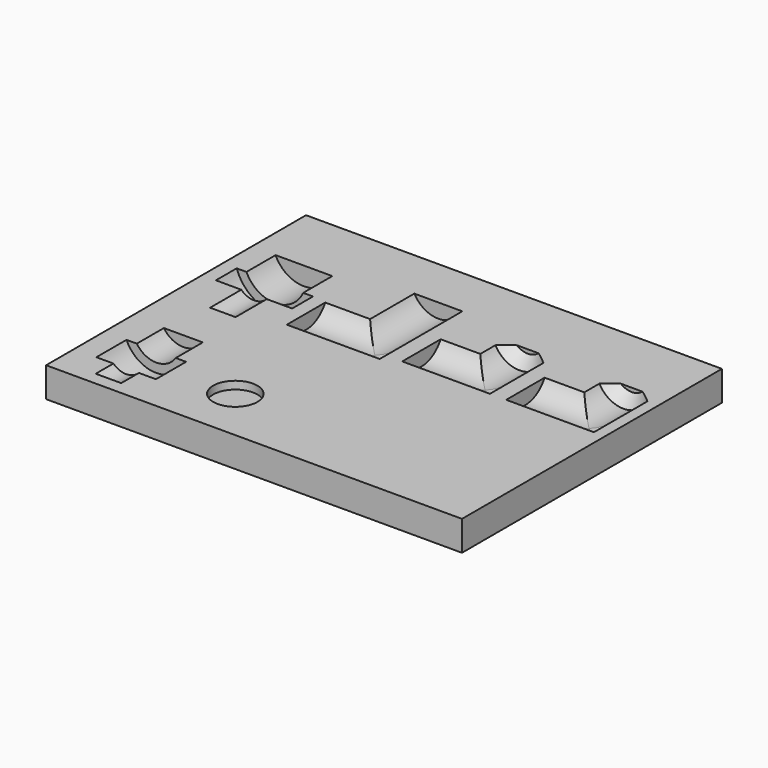
from build123d import *

# Parameters (mm, degrees)
F0_W      = 160
F0_H      = 125
F1_DEPTH  = 16.5
F4_W      = 37
F4_H      = 10.5
F6_W      = 10.5
F6_H      = 20
F6_H_2    = 21
F8_W      = 35
F8_H      = 10.5
F10_W     = 10.5
F10_H     = 21
F12_W     = 10.5
F12_H     = 21
F16_R     = 8.5
F17_DEPTH = 8
F18_W     = 160
F18_H     = 5
F19_DEPTH = 160
F20_W     = 1.2669073437
F20_H     = 18.4661853126
F20_W_2   = 18.4661853126
F20_H_2   = 1.2669073437
F21_DEPTH = 5


with BuildPart() as f1:
    # F0 (on Top) → F1 (new body)
    with BuildSketch(Plane.XY):
        with Locations((80, 62.5)):
            Rectangle(F0_W, F0_H)
    extrude(amount=-F1_DEPTH)

    # F2 (on face) → F3 (revolve, cut)
    with BuildSketch(Plane.XY):
        Polygon((20, 75), (20, 60), (27, 60), (27, 75), (35.5, 75), (35.5, 85), (32, 85), (32, 99), (24.5, 99), (24.5, 113), (20, 113), (20, 99), (20, 85), align=None)
    revolve(axis=Axis((20, 92, 0), (0, 1, 0)), mode=Mode.SUBTRACT)

    # F4 (on face) → F5 (revolve, cut)
    with BuildSketch(Plane.XY):
        with Locations((58.5, 69.75)):
            Rectangle(F4_W, F4_H)
    revolve(axis=Axis((58.5, 75, 0), (1, 0, 0)), mode=Mode.SUBTRACT)

    # F6 (on face) → F7 (revolve, cut)
    with BuildSketch(Plane.XY):
        with Locations((71.75, 95.5)):
            Rectangle(F6_W, F6_H)
        with Locations((71.75, 75)):
            Rectangle(F6_W, F6_H_2)
    revolve(axis=Axis((66.5, 85, 0), (0, 1, 0)), mode=Mode.SUBTRACT)

    # F8 (on face) → F9 (revolve, cut)
    with BuildSketch(Plane.XY):
        with Locations((99.5, 72.75)):
            Rectangle(F8_W, F8_H)
        with Locations((139.5, 72.75)):
            Rectangle(F8_W, F8_H)
    revolve(axis=Axis((99.5, 78, 0), (1, 0, 0)), mode=Mode.SUBTRACT)

    # F10 (on face) → F11 (revolve, cut)
    with BuildSketch(Plane.XY):
        Polygon((106.5, 88.5), (117, 88.5), (117, 94.5), (113, 98.5), (106.5, 98.5), align=None)
        with Locations((111.75, 78)):
            Rectangle(F10_W, F10_H)
    revolve(axis=Axis((106.5, 83, 0), (0, 1, 0)), mode=Mode.SUBTRACT)

    # F12 (on face) → F13 (revolve, cut)
    with BuildSketch(Plane.XY):
        Polygon((146.5, 88.5), (157, 88.5), (157, 94.5), (153, 98.5), (146.5, 98.5), align=None)
        with Locations((151.75, 78)):
            Rectangle(F12_W, F12_H)
    revolve(axis=Axis((146.5, 83, 0), (0, 1, 0)), mode=Mode.SUBTRACT)

    # F14 (on face) → F15 (revolve, cut)
    with BuildSketch(Plane.XY):
        Polygon((20, 13.5), (20, 5), (27, 5), (27, 13.5), (32.5, 13.5), (32.5, 28), (29, 28), (29, 41), (20, 41), (20, 28), align=None)
    revolve(axis=Axis((20, 20.75, 0), (0, 1, 0)), mode=Mode.SUBTRACT)

    # F16 (on face) → F17 (cut)
    with BuildSketch(Plane.XY):
        with Locations((56, 21)):
            Circle(F16_R)
    extrude(amount=-F17_DEPTH, mode=Mode.SUBTRACT)

    # F18 (on face) → F19 (cut)
    with BuildSketch(Plane.XZ):
        with Locations((80, -2.5)):
            Rectangle(F18_W, F18_H)
    extrude(amount=-F19_DEPTH, mode=Mode.SUBTRACT)

    # F20 (on face) → F21 (join)
    with BuildSketch(Plane.XY.offset(-5)):
        with Locations((76.3665463282, 75)):
            Rectangle(F20_W, F20_H)
        with Locations((66.5, 65.1334536718)):
            Rectangle(F20_W_2, F20_H_2)
        with Locations((116.3665463282, 78)):
            Rectangle(F20_W, F20_H)
        with Locations((106.5, 68.1334536718)):
            Rectangle(F20_W_2, F20_H_2)
        with Locations((156.3665463282, 78)):
            Rectangle(F20_W, F20_H)
        with Locations((146.5, 68.1334536718)):
            Rectangle(F20_W_2, F20_H_2)
    extrude(amount=-F21_DEPTH)


solid = f1.part
